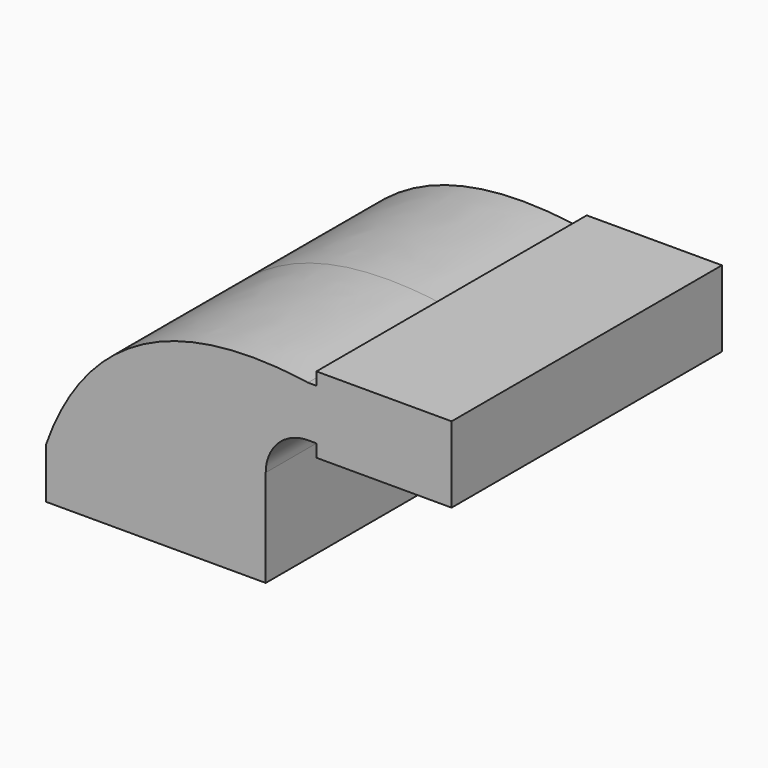
from build123d import *

# Parameters (mm, degrees)
F0_W     = 20.1580673288
F0_H     = 19.05
F1_DEPTH = 63.5


with BuildPart() as f1:
    # F0 (on Front) → F1 (new body, symmetric)
    with BuildSketch(Plane.XZ):
        with BuildLine():
            Line((22.225, 9.525), (41.275, 9.525))
            Line((41.275, 9.525), (41.275, 27.0002))
            ThreePointArc((41.275, 27.0002), (45.9246798487, 38.2255201513), (57.15, 42.8752))
            Line((57.15, 42.8752), (60.325, 42.8752))
            Line((60.325, 42.8752), (60.325, 61.9252))
            Line((60.325, 61.9252), (57.15, 61.9252))
            ThreePointArc((57.15, 61.9252), (32.4542956671, 51.6959043329), (22.225, 27.0002))
            Line((22.225, 27.0002), (22.225, 9.525))
        make_face()
        with BuildLine():
            add(Edge.make_bspline(
                [(-41.275, 9.525), (-24.4504585862, 56.9105558097), (13.9114698395, 68.2926625013), (57.15, 61.9252)],
                knots=[0, 0, 0, 0, 111.5045361635, 111.5045361635, 111.5045361635, 111.5045361635], degree=3))
            Line((-41.275, 9.525), (22.225, 9.525))
            Line((22.225, 9.525), (22.225, 27.0002))
            ThreePointArc((22.225, 27.0002), (32.4542956671, 51.6959043329), (57.15, 61.9252))
        make_face()
        with Locations((70.4040336644, 52.4002)):
            Rectangle(F0_W, F0_H)
        Polygon((60.325, 66.675), (60.325, 61.9252), (80.4830673288, 61.9252), (80.4830673288, 42.8752), (60.325, 42.8752), (60.325, 38.1), (111.125, 38.1), (111.125, 66.675), align=None)
        Polygon((-41.275, 9.525), (-41.275, -9.525), (41.275, -9.525), (41.275, 9.525), (22.225, 9.525), align=None)
    extrude(amount=F1_DEPTH, both=True)


solid = f1.part
